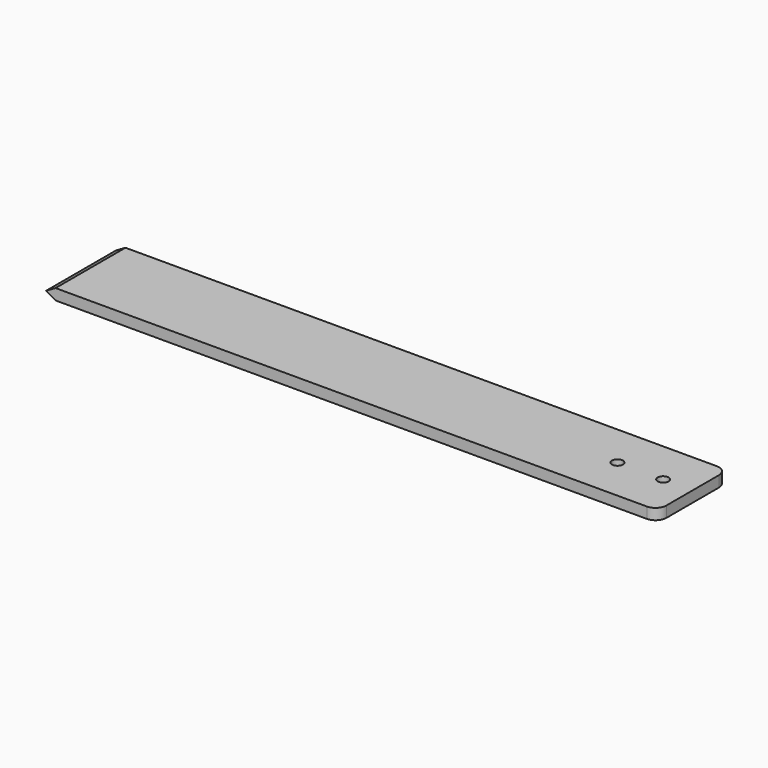
from build123d import *

# Parameters (mm, degrees)
F0_W     = 355.6
F0_H     = 50.8
F0_R     = 3.175
F1_DEPTH = 6.35
F2_R     = 6.35
F4_DEPTH = 50.801


with BuildPart() as f1:
    # F0 (on Top) → F1 (new body)
    with BuildSketch(Plane.XY):
        Rectangle(F0_W, F0_H)
        with Locations((134.088472, 0)):
            Circle(F0_R, mode=Mode.SUBTRACT)
        with Locations((160.657585, 0)):
            Circle(F0_R, mode=Mode.SUBTRACT)
    extrude(amount=F1_DEPTH)

    # F2
    f2_edges = [f1.edges().sort_by_distance(p)[0] for p in [
        (177.8, -25.4, 3.175),
        (177.8, 25.4, 3.175),
    ]]
    fillet(f2_edges, radius=F2_R)

    # F3 (on face) → F4 (cut, through all)
    with BuildSketch(Plane.XZ.offset(25.4)):
        Polygon((-177.8, 6.35), (-177.8, 3.175), (-172.300739, 6.35), align=None)
        Polygon((-172.300739, 0), (-177.8, 3.175), (-177.8, 0), align=None)
    extrude(amount=-F4_DEPTH, mode=Mode.SUBTRACT)


solid = f1.part
